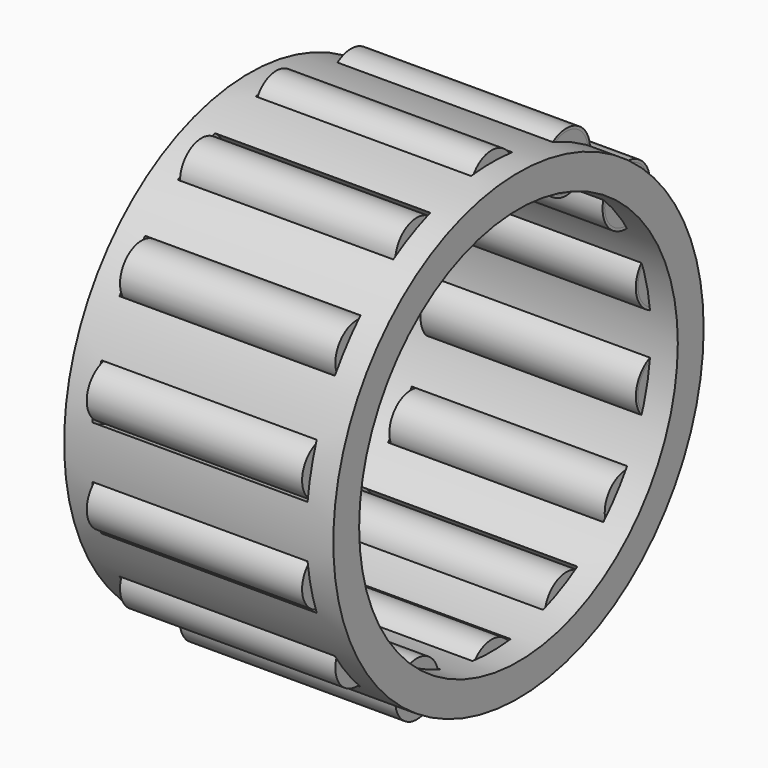
from build123d import *

# Parameters (mm, degrees)
F2_R      = 8.6
F2_R_2    = 7.4
F3_DEPTH  = 5
F4_R      = 1.1
F5_DEPTH  = 4
F6_COUNT  = 14
F8_R      = 1
F9_DEPTH  = 4
F10_COUNT = 14


with BuildPart() as f3:
    # F2 (on Right) → F3 (new body, symmetric)
    with BuildSketch(Plane.YZ):
        Circle(F2_R)
        Circle(F2_R_2, mode=Mode.SUBTRACT)
    extrude(amount=F3_DEPTH, both=True)


with BuildPart() as f5:
    # F4 (on Right) → F5 (new body, symmetric)
    with BuildSketch(Plane.YZ):
        with Locations((0, 8)):
            Circle(F4_R)
    extrude(amount=F5_DEPTH, both=True)


with BuildPart() as f6_1:
    # F6: instance of F5
    add(f5.part.rotate(Axis((5, 0, 0), (1, 0, 0)), 1 * 360 / F6_COUNT))


with BuildPart() as f6_2:
    # F6: instance of F5
    add(f5.part.rotate(Axis((5, 0, 0), (1, 0, 0)), 2 * 360 / F6_COUNT))


with BuildPart() as f6_3:
    # F6: instance of F5
    add(f5.part.rotate(Axis((5, 0, 0), (1, 0, 0)), 3 * 360 / F6_COUNT))


with BuildPart() as f6_4:
    # F6: instance of F5
    add(f5.part.rotate(Axis((5, 0, 0), (1, 0, 0)), 4 * 360 / F6_COUNT))


with BuildPart() as f6_5:
    # F6: instance of F5
    add(f5.part.rotate(Axis((5, 0, 0), (1, 0, 0)), 5 * 360 / F6_COUNT))


with BuildPart() as f6_6:
    # F6: instance of F5
    add(f5.part.rotate(Axis((5, 0, 0), (1, 0, 0)), 6 * 360 / F6_COUNT))


with BuildPart() as f6_7:
    # F6: instance of F5
    add(f5.part.rotate(Axis((5, 0, 0), (1, 0, 0)), 7 * 360 / F6_COUNT))


with BuildPart() as f6_8:
    # F6: instance of F5
    add(f5.part.rotate(Axis((5, 0, 0), (1, 0, 0)), 8 * 360 / F6_COUNT))


with BuildPart() as f6_9:
    # F6: instance of F5
    add(f5.part.rotate(Axis((5, 0, 0), (1, 0, 0)), 9 * 360 / F6_COUNT))


with BuildPart() as f6_10:
    # F6: instance of F5
    add(f5.part.rotate(Axis((5, 0, 0), (1, 0, 0)), 10 * 360 / F6_COUNT))


with BuildPart() as f6_11:
    # F6: instance of F5
    add(f5.part.rotate(Axis((5, 0, 0), (1, 0, 0)), 11 * 360 / F6_COUNT))


with BuildPart() as f6_12:
    # F6: instance of F5
    add(f5.part.rotate(Axis((5, 0, 0), (1, 0, 0)), 12 * 360 / F6_COUNT))


with BuildPart() as f6_13:
    # F6: instance of F5
    add(f5.part.rotate(Axis((5, 0, 0), (1, 0, 0)), 13 * 360 / F6_COUNT))


with BuildPart() as f3_1:
    add(f3.part)

    # F7: cut F6_1, F6_4, F6_9, F6_3, F6_5, F6_2, F6_7, F6_8, F6_6, F5
    add(f6_1.part, mode=Mode.SUBTRACT)
    add(f6_4.part, mode=Mode.SUBTRACT)
    add(f6_9.part, mode=Mode.SUBTRACT)
    add(f6_3.part, mode=Mode.SUBTRACT)
    add(f6_5.part, mode=Mode.SUBTRACT)
    add(f6_2.part, mode=Mode.SUBTRACT)
    add(f6_7.part, mode=Mode.SUBTRACT)
    add(f6_8.part, mode=Mode.SUBTRACT)
    add(f6_6.part, mode=Mode.SUBTRACT)
    add(f5.part, mode=Mode.SUBTRACT)


with BuildPart() as f9:
    # F8 (on Right) → F9 (new body, symmetric)
    with BuildSketch(Plane.YZ):
        with Locations((0, 8)):
            Circle(F8_R)
    extrude(amount=F9_DEPTH, both=True)


with BuildPart() as f10_1:
    # F10: instance of F9
    add(f9.part.rotate(Axis((5, 0, 0), (1, 0, 0)), 1 * 360 / F10_COUNT))


with BuildPart() as f10_2:
    # F10: instance of F9
    add(f9.part.rotate(Axis((5, 0, 0), (1, 0, 0)), 2 * 360 / F10_COUNT))


with BuildPart() as f10_3:
    # F10: instance of F9
    add(f9.part.rotate(Axis((5, 0, 0), (1, 0, 0)), 3 * 360 / F10_COUNT))


with BuildPart() as f10_4:
    # F10: instance of F9
    add(f9.part.rotate(Axis((5, 0, 0), (1, 0, 0)), 4 * 360 / F10_COUNT))


with BuildPart() as f10_5:
    # F10: instance of F9
    add(f9.part.rotate(Axis((5, 0, 0), (1, 0, 0)), 5 * 360 / F10_COUNT))


with BuildPart() as f10_6:
    # F10: instance of F9
    add(f9.part.rotate(Axis((5, 0, 0), (1, 0, 0)), 6 * 360 / F10_COUNT))


with BuildPart() as f10_7:
    # F10: instance of F9
    add(f9.part.rotate(Axis((5, 0, 0), (1, 0, 0)), 7 * 360 / F10_COUNT))


with BuildPart() as f10_8:
    # F10: instance of F9
    add(f9.part.rotate(Axis((5, 0, 0), (1, 0, 0)), 8 * 360 / F10_COUNT))


with BuildPart() as f10_9:
    # F10: instance of F9
    add(f9.part.rotate(Axis((5, 0, 0), (1, 0, 0)), 9 * 360 / F10_COUNT))


with BuildPart() as f10_10:
    # F10: instance of F9
    add(f9.part.rotate(Axis((5, 0, 0), (1, 0, 0)), 10 * 360 / F10_COUNT))


with BuildPart() as f10_11:
    # F10: instance of F9
    add(f9.part.rotate(Axis((5, 0, 0), (1, 0, 0)), 11 * 360 / F10_COUNT))


with BuildPart() as f10_12:
    # F10: instance of F9
    add(f9.part.rotate(Axis((5, 0, 0), (1, 0, 0)), 12 * 360 / F10_COUNT))


with BuildPart() as f10_13:
    # F10: instance of F9
    add(f9.part.rotate(Axis((5, 0, 0), (1, 0, 0)), 13 * 360 / F10_COUNT))


solid = Compound([f6_10.part, f6_11.part, f6_12.part, f6_13.part, f3_1.part, f9.part, f10_1.part, f10_2.part, f10_3.part, f10_4.part, f10_5.part, f10_6.part, f10_7.part, f10_8.part, f10_9.part, f10_10.part, f10_11.part, f10_12.part, f10_13.part])
